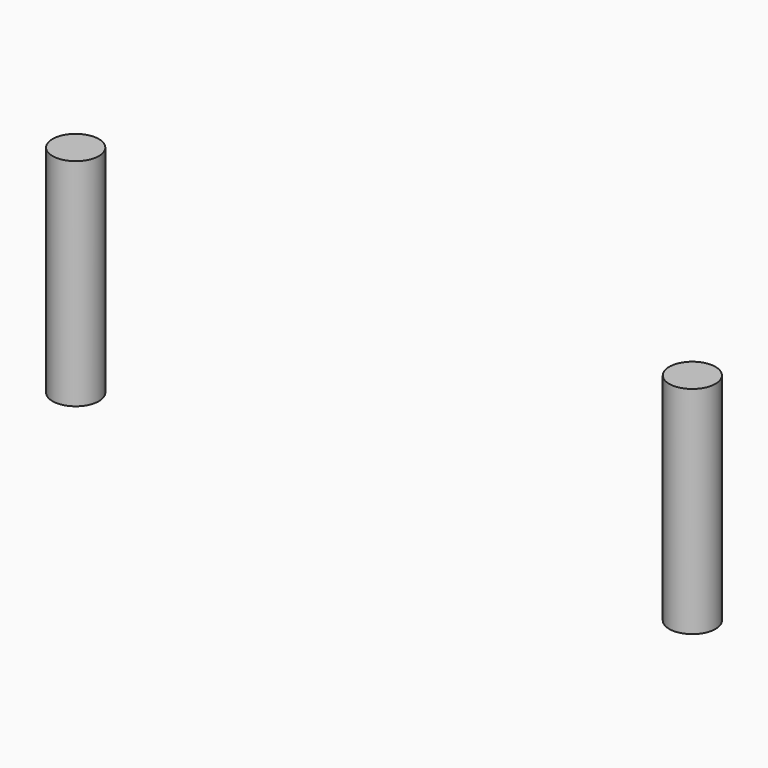
from build123d import *

# Parameters (mm, degrees)
CYLINDER091_R     = 1.5
CYLINDER091_DEPTH = 14
CYLINDER092_R     = 1.5
CYLINDER092_DEPTH = 14


with BuildPart() as obj1:
    # Cylinder091 → Cylinder091 (new body)
    with BuildSketch(Plane(origin=(53.66, 148, 0), x_dir=(1, 0, 0), z_dir=(0, 0, 1))):
        Circle(CYLINDER091_R)
    extrude(amount=CYLINDER091_DEPTH)


with BuildPart() as obj2:
    # Cylinder092 → Cylinder092 (new body)
    with BuildSketch(Plane(origin=(93.66, 148, 0), x_dir=(1, 0, 0), z_dir=(0, 0, 1))):
        Circle(CYLINDER092_R)
    extrude(amount=CYLINDER092_DEPTH)

    # Fusion040: union obj1
    add(obj1.part)


solid = obj2.part
